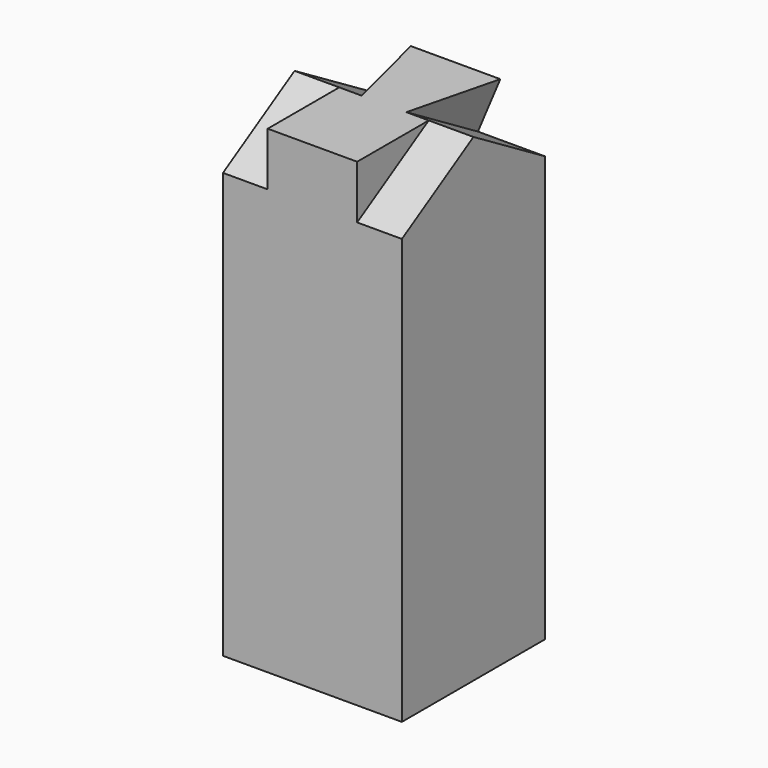
from build123d import *

# Parameters (mm, degrees)
F0_W      = 50.8
F0_H      = 50.8
F1_DEPTH  = 135.89
F6_DEPTH  = 50.8
F11_W     = 12.7
F11_H     = 15.1711734065
F12_DEPTH = 27.7114
F13_DEPTH = 36.9062
F14_DEPTH = 15.1721734065
F17_DEPTH = 5.8166
F18_DEPTH = 25.654
F20_DEPTH = 50.8
F23_DEPTH = 9.906
F24_DEPTH = 28.194
F26_DEPTH = 3.556
F27_DEPTH = 33.528
F29_DEPTH = 12.7
F31_DEPTH = 12.7


with BuildPart() as f1:
    # F0 (on Top) → F1 (new body)
    with BuildSketch(Plane.XY):
        with Locations((4.8314797107, 4.7515430488)):
            Rectangle(F0_W, F0_H)
    extrude(amount=F1_DEPTH)

    # F5 (on face) + F3 (on face) → F6 (cut)
    with BuildSketch(Plane(origin=(-20.5685202893, 0, 0), x_dir=(0, -1, 0), z_dir=(-1, 0, 0))):
        Polygon((-4.7515430488, 120.7188265935), (-4.7515430488, 135.89), (-30.1515430488, 120.7188265935), align=None)
    with BuildSketch(Plane(origin=(-20.5685202893, 0, 0), x_dir=(0, -1, 0), z_dir=(-1, 0, 0))):
        Polygon((-30.1515430488, 135.89), (-30.1515430488, 120.7188265935), (-4.7515430488, 135.89), align=None)
    extrude(amount=-F6_DEPTH, mode=Mode.SUBTRACT)

    # F11 (on face) → F12 (join)
    with BuildSketch(Plane(origin=(0, 30.1515430488, 0), x_dir=(-1, 0, 0), z_dir=(0, 1, 0))):
        with Locations((-4.8314797107, 128.3044132968)):
            Rectangle(F11_W, F11_H)
    extrude(amount=-F12_DEPTH)

    # F2 (on face) → F13 (join)
    with BuildSketch(Plane(origin=(0, 30.1515430488, 0), x_dir=(-1, 0, 0), z_dir=(0, 1, 0))):
        Polygon((7.8685202893, 135.89), (-17.5314797107, 135.89), (-11.1814797107, 120.7188265935), (1.5185202893, 120.7188265935), align=None)
    extrude(amount=-F13_DEPTH)

    # F4 (on face) → F14 (cut, through all)
    with BuildSketch(Plane.XY.offset(135.89)):
        Polygon((17.5314797107, 4.7515430488), (17.5314797107, 30.1515430488), (11.1814797107, 4.7515430488), align=None)
    extrude(amount=-F14_DEPTH, mode=Mode.SUBTRACT)

    # F16 (on 3pt) → F17 (cut)
    with BuildSketch(Plane(origin=(-37.880335568, 9.470083892, 15.8550775482), x_dir=(-0.2072908126, -0.9744242912, 0.0867630094), z_dir=(-0.8988641792, 0.2247160448, 0.3762258452))):
        Polygon((4.8423883579, 129.6698123278), (-21.2242852978, 132.1215514099), (-21.2242852978, 115.6750623459), (3.5260916978, 115.6750623459), align=None)
    extrude(amount=-F17_DEPTH, mode=Mode.SUBTRACT)

    # F18 (add): a face of the model
    f18_faces = [f1.faces().sort_by_distance(p)[0] for p in [
        (30.2314797107, 4.0006963035, 64.3764433841),
    ]]
    extrude(f18_faces, amount=-F18_DEPTH)

    # F19 (on face) → F20 (join)
    with BuildSketch(Plane.YZ.offset(30.2314797107)):
        Polygon((30.1515430488, 120.7188265935), (4.7515430488, 135.89), (4.7515430488, 120.7188265935), align=None)
    extrude(amount=-F20_DEPTH)

    # F22 (on 3pt) → F23 (cut)
    with BuildSketch(Plane(origin=(45.6875894624, 11.4218973656, 19.1228578906), x_dir=(-0.2072908126, 0.9744242912, -0.0867630094), z_dir=(0.8988641792, 0.2247160448, 0.3762258452))):
        Polygon((19.221242587, 111.9441875016), (19.221242587, 128.4180545008), (-6.8454310687, 125.9389374835), (-5.5291344086, 111.9441875016), align=None)
    extrude(amount=-F23_DEPTH, mode=Mode.SUBTRACT)

    # F24 (add): a face of the model
    f24_faces = [f1.faces().sort_by_distance(p)[0] for p in [
        (-20.5685202893, 4.2653508293, 66.1393526656),
    ]]
    extrude(f24_faces, amount=-F24_DEPTH)

    # F25 (on face) → F26 (cut)
    with BuildSketch(Plane.XY.offset(135.89)):
        Polygon((-7.8685202893, 4.7515430488), (-1.5185202893, 4.7515430488), (-7.8685202893, 29.8561221751), align=None)
    extrude(amount=-F26_DEPTH, mode=Mode.SUBTRACT)

    # F27 (add): a face of the model
    f27_faces = [f1.faces().sort_by_distance(p)[0] for p in [
        (-20.5685202893, 4.2653508293, 66.1393526656),
    ]]
    extrude(f27_faces, amount=-F27_DEPTH)

    # F28 (on face) → F29 (cut)
    with BuildSketch(Plane.YZ.offset(30.2314797107)):
        Polygon((-20.6484569512, 135.89), (-20.6484569512, 120.7188265935), (4.7515430488, 135.89), align=None)
    extrude(amount=-F29_DEPTH, mode=Mode.SUBTRACT)

    # F30 (on face) → F31 (cut)
    with BuildSketch(Plane(origin=(-20.5685202893, 0, 0), x_dir=(0, -1, 0), z_dir=(-1, 0, 0))):
        Polygon((-4.7515430488, 135.89), (20.6484569512, 120.7188265935), (20.6484569512, 135.89), align=None)
    extrude(amount=-F31_DEPTH, mode=Mode.SUBTRACT)


solid = f1.part
